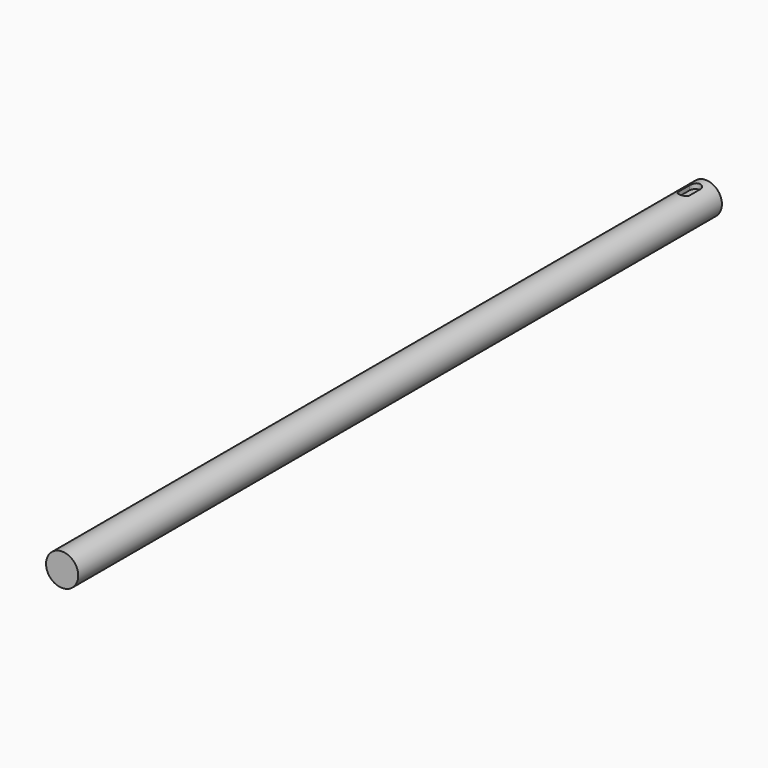
from build123d import *

# Parameters (mm, degrees)
F0_R     = 6
F1_DEPTH = 300
F4_DEPTH = 4


with BuildPart() as f1:
    # F0 (on Front) → F1 (new body)
    with BuildSketch(Plane.XZ):
        Circle(F0_R)
    extrude(amount=F1_DEPTH)

    # F3 (on offset) → F4 (cut)
    with BuildSketch(Plane.XY.offset(8)):
        with BuildLine():
            Line((-2, -5), (-2, -10))
            ThreePointArc((-2, -10), (0, -12), (2, -10))
            Line((2, -10), (2, -5))
            ThreePointArc((2, -5), (0, -3), (-2, -5))
        make_face()
    extrude(amount=-F4_DEPTH, mode=Mode.SUBTRACT)


solid = f1.part
